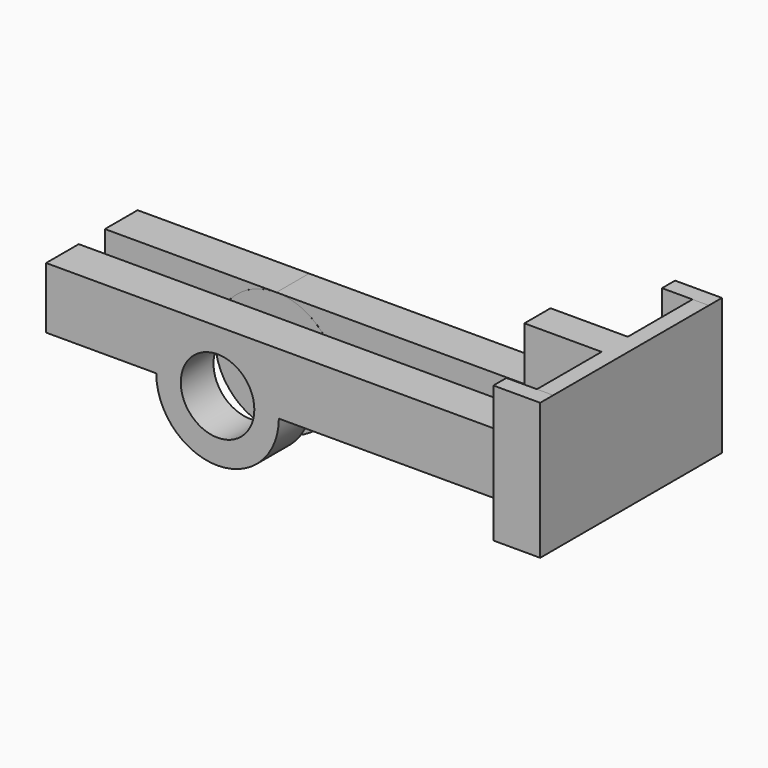
from build123d import *

# Parameters (mm, degrees)
F0_R     = 7.5
F0_R_2   = 4.5
F1_DEPTH = 5
F3_DEPTH = 5
F4_W     = 5
F4_H     = 7.5
F5_DEPTH = 2
F6_W     = 3.731436
F6_H     = 16.702701
F6_W_2   = 2
F7_DEPTH = 2
F9_DEPTH = 2


with BuildPart() as f1:
    # F0 (on Front) → F1 (new body)
    with BuildSketch(Plane.XZ):
        Circle(F0_R)
        Circle(F0_R_2, mode=Mode.SUBTRACT)
    extrude(amount=F1_DEPTH)


with BuildPart() as f3:
    # F2 (on face) → F3 (new body)
    with BuildSketch(Plane.XZ.offset(5)):
        with BuildLine():
            ThreePointArc((-7.5, 0), (-5.303301, 5.303301), (0, 7.5))
            Line((0, 7.5), (-20.984, 7.5))
            Line((-20.984, 7.5), (-20.984, 0))
            Line((-20.984, 0), (-7.5, 0))
        make_face()
        with BuildLine():
            ThreePointArc((0, 7.5), (5.303301, 5.303301), (7.5, 0))
            Line((7.5, 0), (43, 0))
            Line((43, 0), (43, 7.5))
            Line((43, 7.5), (0, 7.5))
        make_face()
    extrude(amount=-F3_DEPTH)

    # F4 (on face) → F5 (join)
    with BuildSketch(Plane.YZ.offset(43)):
        Polygon((0, 7.5), (0, 0), (4.9, 0), (4.9, 16.702701), (-5, 16.702701), (-5, 7.5), align=None)
        with Locations((-2.5, 3.75)):
            Rectangle(F4_W, F4_H)
    extrude(amount=F5_DEPTH)

    # F6 (on face) → F7 (join)
    with BuildSketch(Plane(origin=(0, 4.9, 0), x_dir=(-1, 0, 0), z_dir=(0, 1, 0))):
        with Locations((-41.134282, 8.35135)):
            Rectangle(F6_W, F6_H)
        with Locations((-44, 8.35135)):
            Rectangle(F6_W_2, F6_H)
    extrude(amount=F7_DEPTH)

    # F8 (on face) → F9 (join)
    with BuildSketch(Plane.XZ.offset(5)):
        Polygon((33.546664, 0), (45, 0), (45, 16.702701), (43, 16.702701), (33.546664, 16.702701), align=None)
        Polygon((33.546664, 0), (45, 0), (45, 16.702701), (43, 16.702701), (33.546664, 16.702701), align=None)
    extrude(amount=F9_DEPTH)

    # F10: F3, F1 across face


with BuildPart() as f3_1:
    add(f3.part)
    add(f3.part.mirror(Plane(origin=(39.273332, -7, 8.35135), x_dir=(1, 0, 0), z_dir=(0, -1, 0))))
    add(f1.part.mirror(Plane(origin=(39.273332, -7, 8.35135), x_dir=(1, 0, 0), z_dir=(0, -1, 0))))


solid = Compound([f1.part, f3_1.part])
